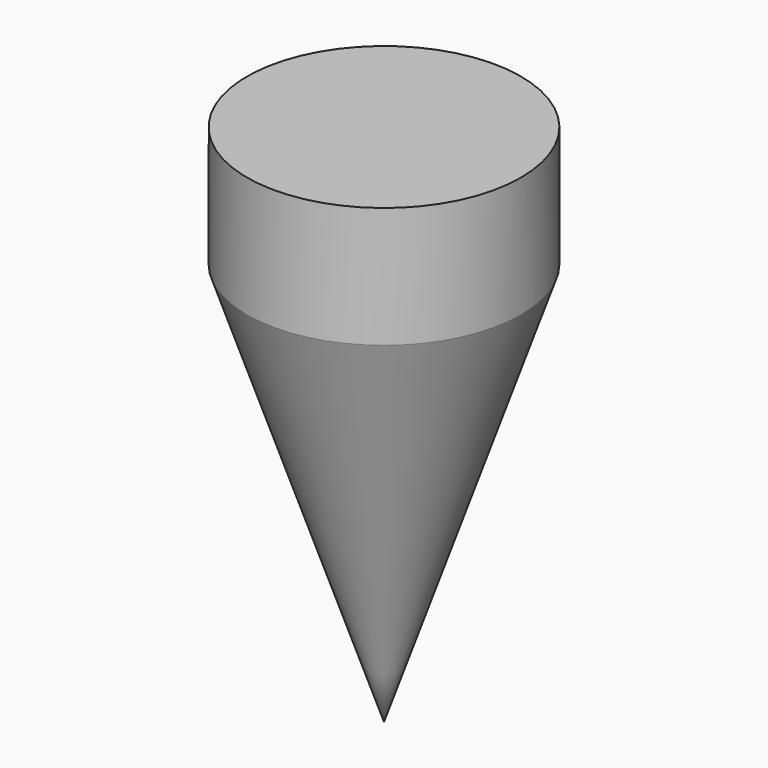
from build123d import *

# Parameters (mm, degrees)
F0_R     = 3.4
F1_DEPTH = 3


with BuildPart() as f1:
    # F0 (on Top) → F1 (new body)
    with BuildSketch(Plane.XY):
        Circle(F0_R)
    extrude(amount=F1_DEPTH)

    # F2 (on Front) → F3 (revolve)
    with BuildSketch(Plane.XZ):
        Polygon((0, 0), (-3.4, 0), (0, -10), align=None)
    revolve(axis=Axis((0, 0, -5), (0, 0, 1)))


solid = f1.part
